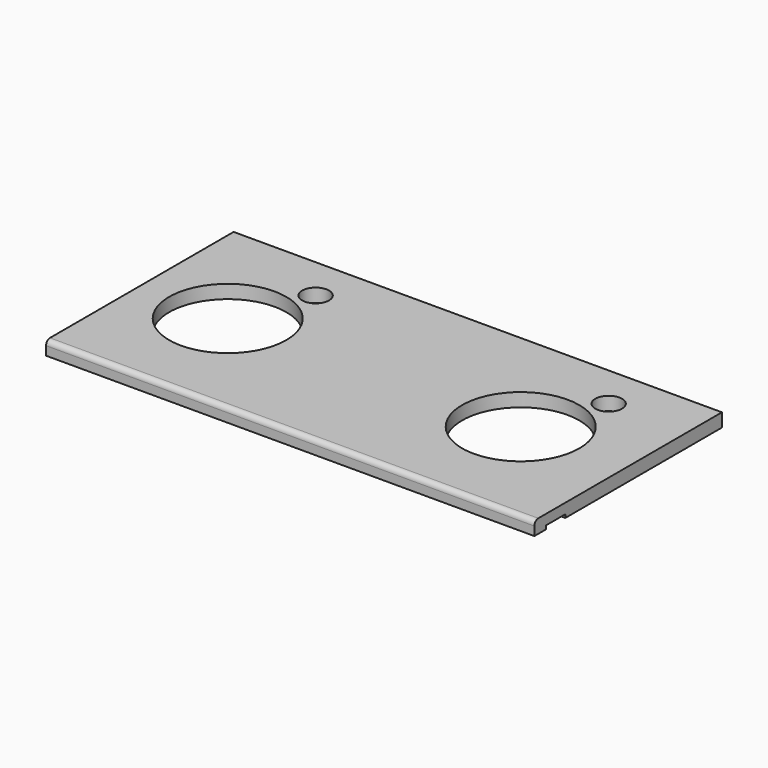
from build123d import *

# Parameters (mm, degrees)
F1_DEPTH = 635
F2_R     = 76.2
F2_R_2   = 17.4625
F3_DEPTH = 25.4


with BuildPart() as f1:
    # F0 (on Right) → F1 (new body)
    with BuildSketch(Plane.YZ):
        with BuildLine():
            ThreePointArc((-3.046519, 13.231003), (-7.536648, 11.371131), (-9.396519, 6.881003))
            Line((-9.396519, 6.881003), (-9.396519, -4.605605))
            Line((-9.396519, -4.605605), (9.653481, -4.605605))
            Line((9.653481, -4.605605), (9.653481, 0))
            Line((9.653481, 0), (40.864997, 0))
            Line((40.864997, 0), (40.864997, -4.284248))
            Line((40.864997, -4.284248), (295.403481, -4.284248))
            Line((295.403481, -4.284248), (295.403481, 13.231003))
            Line((295.403481, 13.231003), (-3.046519, 13.231003))
        make_face()
    extrude(amount=F1_DEPTH)

    # F2 (on face) → F3 (cut)
    with BuildSketch(Plane.XY.offset(13.231003)):
        with Locations((114.3, 143.003481)):
            Circle(F2_R)
        with Locations((495.3, 143.003481)):
            Circle(F2_R)
        with Locations((533.4, 238.253481)):
            Circle(F2_R_2)
        with Locations((152.4, 238.253481)):
            Circle(F2_R_2)
    extrude(amount=-F3_DEPTH, mode=Mode.SUBTRACT)


solid = f1.part
